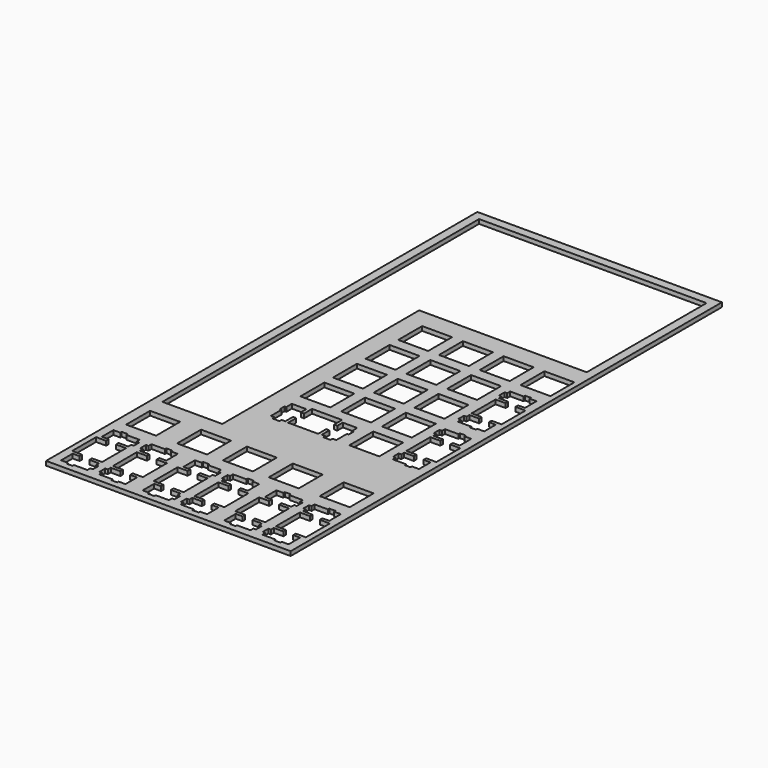
from build123d import *

# Parameters (mm, degrees)
SKETCH006_W     = 114.3
SKETCH006_H     = 251.95
PAD_DEPTH       = 2
POCKET_DEPTH    = 2.001
POCKET001_DEPTH = 2.001
POCKET002_DEPTH = 2.001
SKETCH008_W     = 106.3
SKETCH008_H     = 70
SKETCH008_W_2   = 28
SKETCH008_H_2   = 115
POCKET004_DEPTH = 5


with BuildPart() as part:
    # Sketch006 → Pad (new body)
    with BuildSketch(Plane.XY):
        with Locations((0, 125.975)):
            Rectangle(SKETCH006_W, SKETCH006_H)
    extrude(amount=PAD_DEPTH)

    # Sketch001 → Pocket (cut, through all)
    with BuildSketch(Plane(origin=(-62.151, 176.451, 0), x_dir=(1, 0, 0), z_dir=(0, 0, 1))):
        with BuildLine():
            add(Edge.make_bspline(
                [(109.275, -141.301), (109.275, -142.126)],
                knots=[0, 0, 0.825, 0.825], degree=1))
            add(Edge.make_bspline(
                [(109.275, -142.126), (103.006, -142.126)],
                knots=[0, 0, 6.269, 6.269], degree=1))
            add(Edge.make_bspline(
                [(103.006, -142.126), (103.006, -143.851)],
                knots=[0, 0, 1.725, 1.725], degree=1))
            add(Edge.make_bspline(
                [(103.006, -143.851), (101.805, -143.851)],
                knots=[0, 0, 1.201, 1.201], degree=1))
            add(Edge.make_bspline(
                [(101.805, -143.851), (101.805, -147.151)],
                knots=[0, 0, 3.3, 3.3], degree=1))
            add(Edge.make_bspline(
                [(101.805, -147.151), (103.006, -147.151)],
                knots=[0, 0, 1.201, 1.201], degree=1))
            add(Edge.make_bspline(
                [(103.006, -147.151), (103.006, -148.876)],
                knots=[0, 0, 1.725, 1.725], degree=1))
            add(Edge.make_bspline(
                [(103.006, -148.876), (107.476, -148.876)],
                knots=[0, 0, 4.47, 4.47], degree=1))
            add(Edge.make_bspline(
                [(107.476, -148.876), (107.476, -150.401)],
                knots=[0, 0, 1.525, 1.525], degree=1))
            add(Edge.make_bspline(
                [(107.476, -150.401), (102.775, -150.401)],
                knots=[0, 0, 4.701, 4.701], degree=1))
            add(Edge.make_bspline(
                [(102.775, -150.401), (102.775, -164.401)],
                knots=[0, 0, 14, 14], degree=1))
            add(Edge.make_bspline(
                [(102.775, -164.401), (107.476, -164.401)],
                knots=[0, 0, 4.701, 4.701], degree=1))
            add(Edge.make_bspline(
                [(107.476, -164.401), (107.476, -165.926)],
                knots=[0, 0, 1.525, 1.525], degree=1))
            add(Edge.make_bspline(
                [(107.476, -165.926), (103.006, -165.926)],
                knots=[0, 0, 4.47, 4.47], degree=1))
            add(Edge.make_bspline(
                [(103.006, -165.926), (103.006, -167.651)],
                knots=[0, 0, 1.725, 1.725], degree=1))
            add(Edge.make_bspline(
                [(103.006, -167.651), (101.805, -167.651)],
                knots=[0, 0, 1.201, 1.201], degree=1))
            add(Edge.make_bspline(
                [(101.805, -167.651), (101.805, -170.951)],
                knots=[0, 0, 3.3, 3.3], degree=1))
            add(Edge.make_bspline(
                [(101.805, -170.951), (103.006, -170.951)],
                knots=[0, 0, 1.201, 1.201], degree=1))
            add(Edge.make_bspline(
                [(103.006, -170.951), (103.006, -172.676)],
                knots=[0, 0, 1.725, 1.725], degree=1))
            add(Edge.make_bspline(
                [(103.006, -172.676), (109.275, -172.676)],
                knots=[0, 0, 6.269, 6.269], degree=1))
            add(Edge.make_bspline(
                [(109.275, -172.676), (109.275, -173.501)],
                knots=[0, 0, 0.825, 0.825], degree=1))
            add(Edge.make_bspline(
                [(109.275, -173.501), (112.075, -173.501)],
                knots=[0, 0, 2.8, 2.8], degree=1))
            add(Edge.make_bspline(
                [(112.075, -173.501), (112.075, -172.676)],
                knots=[0, 0, 0.825, 0.825], degree=1))
            add(Edge.make_bspline(
                [(112.075, -172.676), (115.305, -172.676)],
                knots=[0, 0, 3.23, 3.23], degree=1))
            add(Edge.make_bspline(
                [(115.305, -172.676), (115.305, -165.926)],
                knots=[0, 0, 6.75, 6.75], degree=1))
            add(Edge.make_bspline(
                [(115.305, -165.926), (112.075, -165.926)],
                knots=[0, 0, 3.23, 3.23], degree=1))
            add(Edge.make_bspline(
                [(112.075, -165.926), (112.075, -164.401)],
                knots=[0, 0, 1.525, 1.525], degree=1))
            add(Edge.make_bspline(
                [(112.075, -164.401), (116.775, -164.401)],
                knots=[0, 0, 4.7, 4.7], degree=1))
            add(Edge.make_bspline(
                [(116.775, -164.401), (116.775, -150.401)],
                knots=[0, 0, 14, 14], degree=1))
            add(Edge.make_bspline(
                [(116.775, -150.401), (112.075, -150.401)],
                knots=[0, 0, 4.7, 4.7], degree=1))
            add(Edge.make_bspline(
                [(112.075, -150.401), (112.075, -148.876)],
                knots=[0, 0, 1.525, 1.525], degree=1))
            add(Edge.make_bspline(
                [(112.075, -148.876), (115.305, -148.876)],
                knots=[0, 0, 3.23, 3.23], degree=1))
            add(Edge.make_bspline(
                [(115.305, -148.876), (115.305, -142.126)],
                knots=[0, 0, 6.75, 6.75], degree=1))
            add(Edge.make_bspline(
                [(115.305, -142.126), (112.075, -142.126)],
                knots=[0, 0, 3.23, 3.23], degree=1))
            add(Edge.make_bspline(
                [(112.075, -142.126), (112.075, -141.301)],
                knots=[0, 0, 0.825, 0.825], degree=1))
            add(Edge.make_bspline(
                [(112.075, -141.301), (109.275, -141.301)],
                knots=[0, 0, 2.8, 2.8], degree=1))
        make_face()
        with BuildLine():
            add(Edge.make_bspline(
                [(71.176, -141.301), (71.176, -142.126)],
                knots=[0, 0, 0.825, 0.825], degree=1))
            add(Edge.make_bspline(
                [(71.176, -142.126), (64.906, -142.126)],
                knots=[0, 0, 6.27, 6.27], degree=1))
            add(Edge.make_bspline(
                [(64.906, -142.126), (64.906, -143.851)],
                knots=[0, 0, 1.725, 1.725], degree=1))
            add(Edge.make_bspline(
                [(64.906, -143.851), (63.706, -143.851)],
                knots=[0, 0, 1.2, 1.2], degree=1))
            add(Edge.make_bspline(
                [(63.706, -143.851), (63.706, -147.151)],
                knots=[0, 0, 3.3, 3.3], degree=1))
            add(Edge.make_bspline(
                [(63.706, -147.151), (64.906, -147.151)],
                knots=[0, 0, 1.2, 1.2], degree=1))
            add(Edge.make_bspline(
                [(64.906, -147.151), (64.906, -148.876)],
                knots=[0, 0, 1.725, 1.725], degree=1))
            add(Edge.make_bspline(
                [(64.906, -148.876), (69.376, -148.876)],
                knots=[0, 0, 4.47, 4.47], degree=1))
            add(Edge.make_bspline(
                [(69.376, -148.876), (69.376, -150.401)],
                knots=[0, 0, 1.525, 1.525], degree=1))
            add(Edge.make_bspline(
                [(69.376, -150.401), (64.676, -150.401)],
                knots=[0, 0, 4.7, 4.7], degree=1))
            add(Edge.make_bspline(
                [(64.676, -150.401), (64.676, -164.401)],
                knots=[0, 0, 14, 14], degree=1))
            add(Edge.make_bspline(
                [(64.676, -164.401), (69.376, -164.401)],
                knots=[0, 0, 4.7, 4.7], degree=1))
            add(Edge.make_bspline(
                [(69.376, -164.401), (69.376, -165.926)],
                knots=[0, 0, 1.525, 1.525], degree=1))
            add(Edge.make_bspline(
                [(69.376, -165.926), (64.906, -165.926)],
                knots=[0, 0, 4.47, 4.47], degree=1))
            add(Edge.make_bspline(
                [(64.906, -165.926), (64.906, -167.651)],
                knots=[0, 0, 1.725, 1.725], degree=1))
            add(Edge.make_bspline(
                [(64.906, -167.651), (63.706, -167.651)],
                knots=[0, 0, 1.2, 1.2], degree=1))
            add(Edge.make_bspline(
                [(63.706, -167.651), (63.706, -170.951)],
                knots=[0, 0, 3.3, 3.3], degree=1))
            add(Edge.make_bspline(
                [(63.706, -170.951), (64.906, -170.951)],
                knots=[0, 0, 1.2, 1.2], degree=1))
            add(Edge.make_bspline(
                [(64.906, -170.951), (64.906, -172.676)],
                knots=[0, 0, 1.725, 1.725], degree=1))
            add(Edge.make_bspline(
                [(64.906, -172.676), (71.176, -172.676)],
                knots=[0, 0, 6.27, 6.27], degree=1))
            add(Edge.make_bspline(
                [(71.176, -172.676), (71.176, -173.501)],
                knots=[0, 0, 0.825, 0.825], degree=1))
            add(Edge.make_bspline(
                [(71.176, -173.501), (73.976, -173.501)],
                knots=[0, 0, 2.8, 2.8], degree=1))
            add(Edge.make_bspline(
                [(73.976, -173.501), (73.976, -172.676)],
                knots=[0, 0, 0.825, 0.825], degree=1))
            add(Edge.make_bspline(
                [(73.976, -172.676), (77.206, -172.676)],
                knots=[0, 0, 3.23, 3.23], degree=1))
            add(Edge.make_bspline(
                [(77.206, -172.676), (77.206, -165.926)],
                knots=[0, 0, 6.75, 6.75], degree=1))
            add(Edge.make_bspline(
                [(77.206, -165.926), (73.976, -165.926)],
                knots=[0, 0, 3.23, 3.23], degree=1))
            add(Edge.make_bspline(
                [(73.976, -165.926), (73.976, -164.401)],
                knots=[0, 0, 1.525, 1.525], degree=1))
            add(Edge.make_bspline(
                [(73.976, -164.401), (78.676, -164.401)],
                knots=[0, 0, 4.7, 4.7], degree=1))
            add(Edge.make_bspline(
                [(78.676, -164.401), (78.676, -150.401)],
                knots=[0, 0, 14, 14], degree=1))
            add(Edge.make_bspline(
                [(78.676, -150.401), (73.976, -150.401)],
                knots=[0, 0, 4.7, 4.7], degree=1))
            add(Edge.make_bspline(
                [(73.976, -150.401), (73.976, -148.876)],
                knots=[0, 0, 1.525, 1.525], degree=1))
            add(Edge.make_bspline(
                [(73.976, -148.876), (77.206, -148.876)],
                knots=[0, 0, 3.23, 3.23], degree=1))
            add(Edge.make_bspline(
                [(77.206, -148.876), (77.206, -142.126)],
                knots=[0, 0, 6.75, 6.75], degree=1))
            add(Edge.make_bspline(
                [(77.206, -142.126), (73.976, -142.126)],
                knots=[0, 0, 3.23, 3.23], degree=1))
            add(Edge.make_bspline(
                [(73.976, -142.126), (73.976, -141.301)],
                knots=[0, 0, 0.825, 0.825], degree=1))
            add(Edge.make_bspline(
                [(73.976, -141.301), (71.176, -141.301)],
                knots=[0, 0, 2.8, 2.8], degree=1))
        make_face()
        with BuildLine():
            add(Edge.make_bspline(
                [(33.076, -141.301), (33.076, -142.126)],
                knots=[0, 0, 0.825, 0.825], degree=1))
            add(Edge.make_bspline(
                [(33.076, -142.126), (26.806, -142.126)],
                knots=[0, 0, 6.27, 6.27], degree=1))
            add(Edge.make_bspline(
                [(26.806, -142.126), (26.806, -143.851)],
                knots=[0, 0, 1.725, 1.725], degree=1))
            add(Edge.make_bspline(
                [(26.806, -143.851), (25.606, -143.851)],
                knots=[0, 0, 1.2, 1.2], degree=1))
            add(Edge.make_bspline(
                [(25.606, -143.851), (25.606, -147.151)],
                knots=[0, 0, 3.3, 3.3], degree=1))
            add(Edge.make_bspline(
                [(25.606, -147.151), (26.806, -147.151)],
                knots=[0, 0, 1.2, 1.2], degree=1))
            add(Edge.make_bspline(
                [(26.806, -147.151), (26.806, -148.876)],
                knots=[0, 0, 1.725, 1.725], degree=1))
            add(Edge.make_bspline(
                [(26.806, -148.876), (31.276, -148.876)],
                knots=[0, 0, 4.47, 4.47], degree=1))
            add(Edge.make_bspline(
                [(31.276, -148.876), (31.276, -150.401)],
                knots=[0, 0, 1.525, 1.525], degree=1))
            add(Edge.make_bspline(
                [(31.276, -150.401), (26.576, -150.401)],
                knots=[0, 0, 4.7, 4.7], degree=1))
            add(Edge.make_bspline(
                [(26.576, -150.401), (26.576, -164.401)],
                knots=[0, 0, 14, 14], degree=1))
            add(Edge.make_bspline(
                [(26.576, -164.401), (31.276, -164.401)],
                knots=[0, 0, 4.7, 4.7], degree=1))
            add(Edge.make_bspline(
                [(31.276, -164.401), (31.276, -165.926)],
                knots=[0, 0, 1.525, 1.525], degree=1))
            add(Edge.make_bspline(
                [(31.276, -165.926), (26.806, -165.926)],
                knots=[0, 0, 4.47, 4.47], degree=1))
            add(Edge.make_bspline(
                [(26.806, -165.926), (26.806, -167.651)],
                knots=[0, 0, 1.725, 1.725], degree=1))
            add(Edge.make_bspline(
                [(26.806, -167.651), (25.606, -167.651)],
                knots=[0, 0, 1.2, 1.2], degree=1))
            add(Edge.make_bspline(
                [(25.606, -167.651), (25.606, -170.951)],
                knots=[0, 0, 3.3, 3.3], degree=1))
            add(Edge.make_bspline(
                [(25.606, -170.951), (26.806, -170.951)],
                knots=[0, 0, 1.2, 1.2], degree=1))
            add(Edge.make_bspline(
                [(26.806, -170.951), (26.806, -172.676)],
                knots=[0, 0, 1.725, 1.725], degree=1))
            add(Edge.make_bspline(
                [(26.806, -172.676), (33.076, -172.676)],
                knots=[0, 0, 6.27, 6.27], degree=1))
            add(Edge.make_bspline(
                [(33.076, -172.676), (33.076, -173.501)],
                knots=[0, 0, 0.825, 0.825], degree=1))
            add(Edge.make_bspline(
                [(33.076, -173.501), (35.876, -173.501)],
                knots=[0, 0, 2.8, 2.8], degree=1))
            add(Edge.make_bspline(
                [(35.876, -173.501), (35.876, -172.676)],
                knots=[0, 0, 0.825, 0.825], degree=1))
            add(Edge.make_bspline(
                [(35.876, -172.676), (39.106, -172.676)],
                knots=[0, 0, 3.23, 3.23], degree=1))
            add(Edge.make_bspline(
                [(39.106, -172.676), (39.106, -165.926)],
                knots=[0, 0, 6.75, 6.75], degree=1))
            add(Edge.make_bspline(
                [(39.106, -165.926), (35.876, -165.926)],
                knots=[0, 0, 3.23, 3.23], degree=1))
            add(Edge.make_bspline(
                [(35.876, -165.926), (35.876, -164.401)],
                knots=[0, 0, 1.525, 1.525], degree=1))
            add(Edge.make_bspline(
                [(35.876, -164.401), (40.576, -164.401)],
                knots=[0, 0, 4.7, 4.7], degree=1))
            add(Edge.make_bspline(
                [(40.576, -164.401), (40.576, -150.401)],
                knots=[0, 0, 14, 14], degree=1))
            add(Edge.make_bspline(
                [(40.576, -150.401), (35.876, -150.401)],
                knots=[0, 0, 4.7, 4.7], degree=1))
            add(Edge.make_bspline(
                [(35.876, -150.401), (35.876, -148.876)],
                knots=[0, 0, 1.525, 1.525], degree=1))
            add(Edge.make_bspline(
                [(35.876, -148.876), (39.106, -148.876)],
                knots=[0, 0, 3.23, 3.23], degree=1))
            add(Edge.make_bspline(
                [(39.106, -148.876), (39.106, -142.126)],
                knots=[0, 0, 6.75, 6.75], degree=1))
            add(Edge.make_bspline(
                [(39.106, -142.126), (35.876, -142.126)],
                knots=[0, 0, 3.23, 3.23], degree=1))
            add(Edge.make_bspline(
                [(35.876, -142.126), (35.876, -141.301)],
                knots=[0, 0, 0.825, 0.825], degree=1))
            add(Edge.make_bspline(
                [(35.876, -141.301), (33.076, -141.301)],
                knots=[0, 0, 2.8, 2.8], degree=1))
        make_face()
    extrude(amount=POCKET_DEPTH, mode=Mode.SUBTRACT)

    # Sketch003 → Pocket001 (cut, through all)
    with BuildSketch(Plane(origin=(-62.151, 176.451, 0), x_dir=(1, 0, 0), z_dir=(0, 0, 1))):
        with BuildLine():
            add(Edge.make_bspline(
                [(100.394, -121.826), (100.394, -135.826)],
                knots=[0, 0, 14, 14], degree=1))
            add(Edge.make_bspline(
                [(100.394, -135.826), (114.394, -135.826)],
                knots=[0, 0, 14, 14], degree=1))
            add(Edge.make_bspline(
                [(114.394, -135.826), (114.394, -121.826)],
                knots=[0, 0, 14, 14], degree=1))
            add(Edge.make_bspline(
                [(114.394, -121.826), (100.394, -121.826)],
                knots=[0, 0, 14, 14], degree=1))
        make_face()
        with BuildLine():
            add(Edge.make_bspline(
                [(76.582, -121.826), (76.582, -135.826)],
                knots=[0, 0, 14, 14], degree=1))
            add(Edge.make_bspline(
                [(76.582, -135.826), (90.582, -135.826)],
                knots=[0, 0, 14, 14], degree=1))
            add(Edge.make_bspline(
                [(90.582, -135.826), (90.582, -121.826)],
                knots=[0, 0, 14, 14], degree=1))
            add(Edge.make_bspline(
                [(90.582, -121.826), (76.582, -121.826)],
                knots=[0, 0, 14, 14], degree=1))
        make_face()
        with BuildLine():
            add(Edge.make_bspline(
                [(55.151, -121.826), (55.151, -135.826)],
                knots=[0, 0, 14, 14], degree=1))
            add(Edge.make_bspline(
                [(55.151, -135.826), (69.151, -135.826)],
                knots=[0, 0, 14, 14], degree=1))
            add(Edge.make_bspline(
                [(69.151, -135.826), (69.151, -121.826)],
                knots=[0, 0, 14, 14], degree=1))
            add(Edge.make_bspline(
                [(69.151, -121.826), (55.151, -121.826)],
                knots=[0, 0, 14, 14], degree=1))
        make_face()
        with BuildLine():
            add(Edge.make_bspline(
                [(33.719, -121.826), (33.719, -135.826)],
                knots=[0, 0, 14, 14], degree=1))
            add(Edge.make_bspline(
                [(33.719, -135.826), (47.719, -135.826)],
                knots=[0, 0, 14, 14], degree=1))
            add(Edge.make_bspline(
                [(47.719, -135.826), (47.719, -121.826)],
                knots=[0, 0, 14, 14], degree=1))
            add(Edge.make_bspline(
                [(47.719, -121.826), (33.719, -121.826)],
                knots=[0, 0, 14, 14], degree=1))
        make_face()
        with BuildLine():
            add(Edge.make_bspline(
                [(9.907, -121.826), (9.907, -135.826)],
                knots=[0, 0, 14, 14], degree=1))
            add(Edge.make_bspline(
                [(9.907, -135.826), (23.907, -135.826)],
                knots=[0, 0, 14, 14], degree=1))
            add(Edge.make_bspline(
                [(23.907, -135.826), (23.907, -121.826)],
                knots=[0, 0, 14, 14], degree=1))
            add(Edge.make_bspline(
                [(23.907, -121.826), (9.907, -121.826)],
                knots=[0, 0, 14, 14], degree=1))
        make_face()
        with BuildLine():
            add(Edge.make_bspline(
                [(55.151, -83.726), (55.151, -88.426)],
                knots=[0, 0, 4.7, 4.7], degree=1))
            add(Edge.make_bspline(
                [(55.151, -88.426), (53.626, -88.426)],
                knots=[0, 0, 1.525, 1.525], degree=1))
            add(Edge.make_bspline(
                [(53.626, -88.426), (53.626, -85.196)],
                knots=[0, 0, 3.23, 3.23], degree=1))
            add(Edge.make_bspline(
                [(53.626, -85.196), (46.876, -85.196)],
                knots=[0, 0, 6.75, 6.75], degree=1))
            add(Edge.make_bspline(
                [(46.876, -85.196), (46.876, -88.426)],
                knots=[0, 0, 3.23, 3.23], degree=1))
            add(Edge.make_bspline(
                [(46.876, -88.426), (46.051, -88.426)],
                knots=[0, 0, 0.825, 0.825], degree=1))
            add(Edge.make_bspline(
                [(46.051, -88.426), (46.051, -91.226)],
                knots=[0, 0, 2.8, 2.8], degree=1))
            add(Edge.make_bspline(
                [(46.051, -91.226), (46.876, -91.226)],
                knots=[0, 0, 0.825, 0.825], degree=1))
            add(Edge.make_bspline(
                [(46.876, -91.226), (46.876, -97.496)],
                knots=[0, 0, 6.27, 6.27], degree=1))
            add(Edge.make_bspline(
                [(46.876, -97.496), (48.601, -97.496)],
                knots=[0, 0, 1.725, 1.725], degree=1))
            add(Edge.make_bspline(
                [(48.601, -97.496), (48.601, -98.696)],
                knots=[0, 0, 1.2, 1.2], degree=1))
            add(Edge.make_bspline(
                [(48.601, -98.696), (51.901, -98.696)],
                knots=[0, 0, 3.3, 3.3], degree=1))
            add(Edge.make_bspline(
                [(51.901, -98.696), (51.901, -97.496)],
                knots=[0, 0, 1.2, 1.2], degree=1))
            add(Edge.make_bspline(
                [(51.901, -97.496), (53.626, -97.496)],
                knots=[0, 0, 1.725, 1.725], degree=1))
            add(Edge.make_bspline(
                [(53.626, -97.496), (53.626, -93.026)],
                knots=[0, 0, 4.47, 4.47], degree=1))
            add(Edge.make_bspline(
                [(53.626, -93.026), (55.151, -93.026)],
                knots=[0, 0, 1.525, 1.525], degree=1))
            add(Edge.make_bspline(
                [(55.151, -93.026), (55.151, -97.726)],
                knots=[0, 0, 4.7, 4.7], degree=1))
            add(Edge.make_bspline(
                [(55.151, -97.726), (69.151, -97.726)],
                knots=[0, 0, 14, 14], degree=1))
            add(Edge.make_bspline(
                [(69.151, -97.726), (69.151, -93.026)],
                knots=[0, 0, 4.7, 4.7], degree=1))
            add(Edge.make_bspline(
                [(69.151, -93.026), (70.676, -93.026)],
                knots=[0, 0, 1.525, 1.525], degree=1))
            add(Edge.make_bspline(
                [(70.676, -93.026), (70.676, -97.496)],
                knots=[0, 0, 4.47, 4.47], degree=1))
            add(Edge.make_bspline(
                [(70.676, -97.496), (72.401, -97.496)],
                knots=[0, 0, 1.725, 1.725], degree=1))
            add(Edge.make_bspline(
                [(72.401, -97.496), (72.401, -98.696)],
                knots=[0, 0, 1.2, 1.2], degree=1))
            add(Edge.make_bspline(
                [(72.401, -98.696), (75.701, -98.696)],
                knots=[0, 0, 3.3, 3.3], degree=1))
            add(Edge.make_bspline(
                [(75.701, -98.696), (75.701, -97.496)],
                knots=[0, 0, 1.2, 1.2], degree=1))
            add(Edge.make_bspline(
                [(75.701, -97.496), (77.426, -97.496)],
                knots=[0, 0, 1.725, 1.725], degree=1))
            add(Edge.make_bspline(
                [(77.426, -97.496), (77.426, -91.226)],
                knots=[0, 0, 6.27, 6.27], degree=1))
            add(Edge.make_bspline(
                [(77.426, -91.226), (78.251, -91.226)],
                knots=[0, 0, 0.825, 0.825], degree=1))
            add(Edge.make_bspline(
                [(78.251, -91.226), (78.251, -88.426)],
                knots=[0, 0, 2.8, 2.8], degree=1))
            add(Edge.make_bspline(
                [(78.251, -88.426), (77.426, -88.426)],
                knots=[0, 0, 0.825, 0.825], degree=1))
            add(Edge.make_bspline(
                [(77.426, -88.426), (77.426, -85.196)],
                knots=[0, 0, 3.23, 3.23], degree=1))
            add(Edge.make_bspline(
                [(77.426, -85.196), (70.676, -85.196)],
                knots=[0, 0, 6.75, 6.75], degree=1))
            add(Edge.make_bspline(
                [(70.676, -85.196), (70.676, -88.426)],
                knots=[0, 0, 3.23, 3.23], degree=1))
            add(Edge.make_bspline(
                [(70.676, -88.426), (69.151, -88.426)],
                knots=[0, 0, 1.525, 1.525], degree=1))
            add(Edge.make_bspline(
                [(69.151, -88.426), (69.151, -83.726)],
                knots=[0, 0, 4.7, 4.7], degree=1))
            add(Edge.make_bspline(
                [(69.151, -83.726), (55.151, -83.726)],
                knots=[0, 0, 14, 14], degree=1))
        make_face()
        with BuildLine():
            add(Edge.make_bspline(
                [(83.726, -83.726), (83.726, -97.726)],
                knots=[0, 0, 14, 14], degree=1))
            add(Edge.make_bspline(
                [(83.726, -97.726), (97.726, -97.726)],
                knots=[0, 0, 14, 14], degree=1))
            add(Edge.make_bspline(
                [(97.726, -97.726), (97.726, -83.726)],
                knots=[0, 0, 14, 14], degree=1))
            add(Edge.make_bspline(
                [(97.726, -83.726), (83.726, -83.726)],
                knots=[0, 0, 14, 14], degree=1))
        make_face()
        with BuildLine():
            add(Edge.make_bspline(
                [(109.275, -65.1), (109.275, -65.926)],
                knots=[0, 0, 0.826, 0.826], degree=1))
            add(Edge.make_bspline(
                [(109.275, -65.926), (103.006, -65.926)],
                knots=[0, 0, 6.269, 6.269], degree=1))
            add(Edge.make_bspline(
                [(103.006, -65.926), (103.006, -67.651)],
                knots=[0, 0, 1.725, 1.725], degree=1))
            add(Edge.make_bspline(
                [(103.006, -67.651), (101.805, -67.651)],
                knots=[0, 0, 1.201, 1.201], degree=1))
            add(Edge.make_bspline(
                [(101.805, -67.651), (101.805, -70.951)],
                knots=[0, 0, 3.3, 3.3], degree=1))
            add(Edge.make_bspline(
                [(101.805, -70.951), (103.006, -70.951)],
                knots=[0, 0, 1.201, 1.201], degree=1))
            add(Edge.make_bspline(
                [(103.006, -70.951), (103.006, -72.676)],
                knots=[0, 0, 1.725, 1.725], degree=1))
            add(Edge.make_bspline(
                [(103.006, -72.676), (107.476, -72.676)],
                knots=[0, 0, 4.47, 4.47], degree=1))
            add(Edge.make_bspline(
                [(107.476, -72.676), (107.476, -74.201)],
                knots=[0, 0, 1.525, 1.525], degree=1))
            add(Edge.make_bspline(
                [(107.476, -74.201), (102.775, -74.201)],
                knots=[0, 0, 4.701, 4.701], degree=1))
            add(Edge.make_bspline(
                [(102.775, -74.201), (102.775, -88.201)],
                knots=[0, 0, 14, 14], degree=1))
            add(Edge.make_bspline(
                [(102.775, -88.201), (107.476, -88.201)],
                knots=[0, 0, 4.701, 4.701], degree=1))
            add(Edge.make_bspline(
                [(107.476, -88.201), (107.476, -89.726)],
                knots=[0, 0, 1.525, 1.525], degree=1))
            add(Edge.make_bspline(
                [(107.476, -89.726), (103.006, -89.726)],
                knots=[0, 0, 4.47, 4.47], degree=1))
            add(Edge.make_bspline(
                [(103.006, -89.726), (103.006, -91.451)],
                knots=[0, 0, 1.725, 1.725], degree=1))
            add(Edge.make_bspline(
                [(103.006, -91.451), (101.805, -91.451)],
                knots=[0, 0, 1.201, 1.201], degree=1))
            add(Edge.make_bspline(
                [(101.805, -91.451), (101.805, -94.751)],
                knots=[0, 0, 3.3, 3.3], degree=1))
            add(Edge.make_bspline(
                [(101.805, -94.751), (103.006, -94.751)],
                knots=[0, 0, 1.201, 1.201], degree=1))
            add(Edge.make_bspline(
                [(103.006, -94.751), (103.006, -96.476)],
                knots=[0, 0, 1.725, 1.725], degree=1))
            add(Edge.make_bspline(
                [(103.006, -96.476), (109.275, -96.476)],
                knots=[0, 0, 6.269, 6.269], degree=1))
            add(Edge.make_bspline(
                [(109.275, -96.476), (109.275, -97.301)],
                knots=[0, 0, 0.825, 0.825], degree=1))
            add(Edge.make_bspline(
                [(109.275, -97.301), (112.075, -97.301)],
                knots=[0, 0, 2.8, 2.8], degree=1))
            add(Edge.make_bspline(
                [(112.075, -97.301), (112.075, -96.476)],
                knots=[0, 0, 0.825, 0.825], degree=1))
            add(Edge.make_bspline(
                [(112.075, -96.476), (115.305, -96.476)],
                knots=[0, 0, 3.23, 3.23], degree=1))
            add(Edge.make_bspline(
                [(115.305, -96.476), (115.305, -89.726)],
                knots=[0, 0, 6.75, 6.75], degree=1))
            add(Edge.make_bspline(
                [(115.305, -89.726), (112.075, -89.726)],
                knots=[0, 0, 3.23, 3.23], degree=1))
            add(Edge.make_bspline(
                [(112.075, -89.726), (112.075, -88.201)],
                knots=[0, 0, 1.525, 1.525], degree=1))
            add(Edge.make_bspline(
                [(112.075, -88.201), (116.775, -88.201)],
                knots=[0, 0, 4.7, 4.7], degree=1))
            add(Edge.make_bspline(
                [(116.775, -88.201), (116.775, -74.201)],
                knots=[0, 0, 14, 14], degree=1))
            add(Edge.make_bspline(
                [(116.775, -74.201), (112.075, -74.201)],
                knots=[0, 0, 4.7, 4.7], degree=1))
            add(Edge.make_bspline(
                [(112.075, -74.201), (112.075, -72.676)],
                knots=[0, 0, 1.525, 1.525], degree=1))
            add(Edge.make_bspline(
                [(112.075, -72.676), (115.305, -72.676)],
                knots=[0, 0, 3.23, 3.23], degree=1))
            add(Edge.make_bspline(
                [(115.305, -72.676), (115.305, -65.926)],
                knots=[0, 0, 6.75, 6.75], degree=1))
            add(Edge.make_bspline(
                [(115.305, -65.926), (112.075, -65.926)],
                knots=[0, 0, 3.23, 3.23], degree=1))
            add(Edge.make_bspline(
                [(112.075, -65.926), (112.075, -65.1)],
                knots=[0, 0, 0.826, 0.826], degree=1))
            add(Edge.make_bspline(
                [(112.075, -65.1), (109.275, -65.1)],
                knots=[0, 0, 2.8, 2.8], degree=1))
        make_face()
        with BuildLine():
            add(Edge.make_bspline(
                [(83.726, -64.676), (83.726, -78.676)],
                knots=[0, 0, 14, 14], degree=1))
            add(Edge.make_bspline(
                [(83.726, -78.676), (97.726, -78.676)],
                knots=[0, 0, 14, 14], degree=1))
            add(Edge.make_bspline(
                [(97.726, -78.676), (97.726, -64.676)],
                knots=[0, 0, 14, 14], degree=1))
            add(Edge.make_bspline(
                [(97.726, -64.676), (83.726, -64.676)],
                knots=[0, 0, 14, 14], degree=1))
        make_face()
        with BuildLine():
            add(Edge.make_bspline(
                [(64.676, -64.676), (64.676, -78.676)],
                knots=[0, 0, 14, 14], degree=1))
            add(Edge.make_bspline(
                [(64.676, -78.676), (78.676, -78.676)],
                knots=[0, 0, 14, 14], degree=1))
            add(Edge.make_bspline(
                [(78.676, -78.676), (78.676, -64.676)],
                knots=[0, 0, 14, 14], degree=1))
            add(Edge.make_bspline(
                [(78.676, -64.676), (64.676, -64.676)],
                knots=[0, 0, 14, 14], degree=1))
        make_face()
        with BuildLine():
            add(Edge.make_bspline(
                [(45.626, -64.676), (45.626, -78.676)],
                knots=[0, 0, 14, 14], degree=1))
            add(Edge.make_bspline(
                [(45.626, -78.676), (59.626, -78.676)],
                knots=[0, 0, 14, 14], degree=1))
            add(Edge.make_bspline(
                [(59.626, -78.676), (59.626, -64.676)],
                knots=[0, 0, 14, 14], degree=1))
            add(Edge.make_bspline(
                [(59.626, -64.676), (45.626, -64.676)],
                knots=[0, 0, 14, 14], degree=1))
        make_face()
        with BuildLine():
            add(Edge.make_bspline(
                [(83.726, -45.626), (83.726, -59.626)],
                knots=[0, 0, 14, 14], degree=1))
            add(Edge.make_bspline(
                [(83.726, -59.626), (97.726, -59.626)],
                knots=[0, 0, 14, 14], degree=1))
            add(Edge.make_bspline(
                [(97.726, -59.626), (97.726, -45.626)],
                knots=[0, 0, 14, 14], degree=1))
            add(Edge.make_bspline(
                [(97.726, -45.626), (83.726, -45.626)],
                knots=[0, 0, 14, 14], degree=1))
        make_face()
        with BuildLine():
            add(Edge.make_bspline(
                [(64.676, -45.626), (64.676, -59.626)],
                knots=[0, 0, 14, 14], degree=1))
            add(Edge.make_bspline(
                [(64.676, -59.626), (78.676, -59.626)],
                knots=[0, 0, 14, 14], degree=1))
            add(Edge.make_bspline(
                [(78.676, -59.626), (78.676, -45.626)],
                knots=[0, 0, 14, 14], degree=1))
            add(Edge.make_bspline(
                [(78.676, -45.626), (64.676, -45.626)],
                knots=[0, 0, 14, 14], degree=1))
        make_face()
        with BuildLine():
            add(Edge.make_bspline(
                [(45.626, -45.626), (45.626, -59.626)],
                knots=[0, 0, 14, 14], degree=1))
            add(Edge.make_bspline(
                [(45.626, -59.626), (59.626, -59.626)],
                knots=[0, 0, 14, 14], degree=1))
            add(Edge.make_bspline(
                [(59.626, -59.626), (59.626, -45.626)],
                knots=[0, 0, 14, 14], degree=1))
            add(Edge.make_bspline(
                [(59.626, -45.626), (45.626, -45.626)],
                knots=[0, 0, 14, 14], degree=1))
        make_face()
        with BuildLine():
            add(Edge.make_bspline(
                [(109.275, -27.001), (109.275, -27.826)],
                knots=[0, 0, 0.825, 0.825], degree=1))
            add(Edge.make_bspline(
                [(109.275, -27.826), (103.006, -27.826)],
                knots=[0, 0, 6.269, 6.269], degree=1))
            add(Edge.make_bspline(
                [(103.006, -27.826), (103.006, -29.551)],
                knots=[0, 0, 1.725, 1.725], degree=1))
            add(Edge.make_bspline(
                [(103.006, -29.551), (101.805, -29.551)],
                knots=[0, 0, 1.201, 1.201], degree=1))
            add(Edge.make_bspline(
                [(101.805, -29.551), (101.805, -32.851)],
                knots=[0, 0, 3.3, 3.3], degree=1))
            add(Edge.make_bspline(
                [(101.805, -32.851), (103.006, -32.851)],
                knots=[0, 0, 1.201, 1.201], degree=1))
            add(Edge.make_bspline(
                [(103.006, -32.851), (103.006, -34.576)],
                knots=[0, 0, 1.725, 1.725], degree=1))
            add(Edge.make_bspline(
                [(103.006, -34.576), (107.476, -34.576)],
                knots=[0, 0, 4.47, 4.47], degree=1))
            add(Edge.make_bspline(
                [(107.476, -34.576), (107.476, -36.101)],
                knots=[0, 0, 1.525, 1.525], degree=1))
            add(Edge.make_bspline(
                [(107.476, -36.101), (102.775, -36.101)],
                knots=[0, 0, 4.701, 4.701], degree=1))
            add(Edge.make_bspline(
                [(102.775, -36.101), (102.775, -50.101)],
                knots=[0, 0, 14, 14], degree=1))
            add(Edge.make_bspline(
                [(102.775, -50.101), (107.476, -50.101)],
                knots=[0, 0, 4.701, 4.701], degree=1))
            add(Edge.make_bspline(
                [(107.476, -50.101), (107.476, -51.626)],
                knots=[0, 0, 1.525, 1.525], degree=1))
            add(Edge.make_bspline(
                [(107.476, -51.626), (103.006, -51.626)],
                knots=[0, 0, 4.47, 4.47], degree=1))
            add(Edge.make_bspline(
                [(103.006, -51.626), (103.006, -53.351)],
                knots=[0, 0, 1.725, 1.725], degree=1))
            add(Edge.make_bspline(
                [(103.006, -53.351), (101.805, -53.351)],
                knots=[0, 0, 1.201, 1.201], degree=1))
            add(Edge.make_bspline(
                [(101.805, -53.351), (101.805, -56.651)],
                knots=[0, 0, 3.3, 3.3], degree=1))
            add(Edge.make_bspline(
                [(101.805, -56.651), (103.006, -56.651)],
                knots=[0, 0, 1.201, 1.201], degree=1))
            add(Edge.make_bspline(
                [(103.006, -56.651), (103.006, -58.376)],
                knots=[0, 0, 1.725, 1.725], degree=1))
            add(Edge.make_bspline(
                [(103.006, -58.376), (109.275, -58.376)],
                knots=[0, 0, 6.269, 6.269], degree=1))
            add(Edge.make_bspline(
                [(109.275, -58.376), (109.275, -59.201)],
                knots=[0, 0, 0.825, 0.825], degree=1))
            add(Edge.make_bspline(
                [(109.275, -59.201), (112.075, -59.201)],
                knots=[0, 0, 2.8, 2.8], degree=1))
            add(Edge.make_bspline(
                [(112.075, -59.201), (112.075, -58.376)],
                knots=[0, 0, 0.825, 0.825], degree=1))
            add(Edge.make_bspline(
                [(112.075, -58.376), (115.305, -58.376)],
                knots=[0, 0, 3.23, 3.23], degree=1))
            add(Edge.make_bspline(
                [(115.305, -58.376), (115.305, -51.626)],
                knots=[0, 0, 6.75, 6.75], degree=1))
            add(Edge.make_bspline(
                [(115.305, -51.626), (112.075, -51.626)],
                knots=[0, 0, 3.23, 3.23], degree=1))
            add(Edge.make_bspline(
                [(112.075, -51.626), (112.075, -50.101)],
                knots=[0, 0, 1.525, 1.525], degree=1))
            add(Edge.make_bspline(
                [(112.075, -50.101), (116.775, -50.101)],
                knots=[0, 0, 4.7, 4.7], degree=1))
            add(Edge.make_bspline(
                [(116.775, -50.101), (116.775, -36.101)],
                knots=[0, 0, 14, 14], degree=1))
            add(Edge.make_bspline(
                [(116.775, -36.101), (112.075, -36.101)],
                knots=[0, 0, 4.7, 4.7], degree=1))
            add(Edge.make_bspline(
                [(112.075, -36.101), (112.075, -34.576)],
                knots=[0, 0, 1.525, 1.525], degree=1))
            add(Edge.make_bspline(
                [(112.075, -34.576), (115.305, -34.576)],
                knots=[0, 0, 3.23, 3.23], degree=1))
            add(Edge.make_bspline(
                [(115.305, -34.576), (115.305, -27.826)],
                knots=[0, 0, 6.75, 6.75], degree=1))
            add(Edge.make_bspline(
                [(115.305, -27.826), (112.075, -27.826)],
                knots=[0, 0, 3.23, 3.23], degree=1))
            add(Edge.make_bspline(
                [(112.075, -27.826), (112.075, -27.001)],
                knots=[0, 0, 0.825, 0.825], degree=1))
            add(Edge.make_bspline(
                [(112.075, -27.001), (109.275, -27.001)],
                knots=[0, 0, 2.8, 2.8], degree=1))
        make_face()
        with BuildLine():
            add(Edge.make_bspline(
                [(83.726, -26.576), (83.726, -40.576)],
                knots=[0, 0, 14, 14], degree=1))
            add(Edge.make_bspline(
                [(83.726, -40.576), (97.726, -40.576)],
                knots=[0, 0, 14, 14], degree=1))
            add(Edge.make_bspline(
                [(97.726, -40.576), (97.726, -26.576)],
                knots=[0, 0, 14, 14], degree=1))
            add(Edge.make_bspline(
                [(97.726, -26.576), (83.726, -26.576)],
                knots=[0, 0, 14, 14], degree=1))
        make_face()
        with BuildLine():
            add(Edge.make_bspline(
                [(64.676, -26.576), (64.676, -40.576)],
                knots=[0, 0, 14, 14], degree=1))
            add(Edge.make_bspline(
                [(64.676, -40.576), (78.676, -40.576)],
                knots=[0, 0, 14, 14], degree=1))
            add(Edge.make_bspline(
                [(78.676, -40.576), (78.676, -26.576)],
                knots=[0, 0, 14, 14], degree=1))
            add(Edge.make_bspline(
                [(78.676, -26.576), (64.676, -26.576)],
                knots=[0, 0, 14, 14], degree=1))
        make_face()
        with BuildLine():
            add(Edge.make_bspline(
                [(45.626, -26.576), (45.626, -40.576)],
                knots=[0, 0, 14, 14], degree=1))
            add(Edge.make_bspline(
                [(45.626, -40.576), (59.626, -40.576)],
                knots=[0, 0, 14, 14], degree=1))
            add(Edge.make_bspline(
                [(59.626, -40.576), (59.626, -26.576)],
                knots=[0, 0, 14, 14], degree=1))
            add(Edge.make_bspline(
                [(59.626, -26.576), (45.626, -26.576)],
                knots=[0, 0, 14, 14], degree=1))
        make_face()
        with BuildLine():
            add(Edge.make_bspline(
                [(102.775, -7.526), (102.775, -21.526)],
                knots=[0, 0, 14, 14], degree=1))
            add(Edge.make_bspline(
                [(102.775, -21.526), (116.775, -21.526)],
                knots=[0, 0, 14, 14], degree=1))
            add(Edge.make_bspline(
                [(116.775, -21.526), (116.775, -7.526)],
                knots=[0, 0, 14, 14], degree=1))
            add(Edge.make_bspline(
                [(116.775, -7.526), (102.775, -7.526)],
                knots=[0, 0, 14, 14], degree=1))
        make_face()
        with BuildLine():
            add(Edge.make_bspline(
                [(83.726, -7.526), (83.726, -21.526)],
                knots=[0, 0, 14, 14], degree=1))
            add(Edge.make_bspline(
                [(83.726, -21.526), (97.726, -21.526)],
                knots=[0, 0, 14, 14], degree=1))
            add(Edge.make_bspline(
                [(97.726, -21.526), (97.726, -7.526)],
                knots=[0, 0, 14, 14], degree=1))
            add(Edge.make_bspline(
                [(97.726, -7.526), (83.726, -7.526)],
                knots=[0, 0, 14, 14], degree=1))
        make_face()
        with BuildLine():
            add(Edge.make_bspline(
                [(64.676, -7.526), (64.676, -21.526)],
                knots=[0, 0, 14, 14], degree=1))
            add(Edge.make_bspline(
                [(64.676, -21.526), (78.676, -21.526)],
                knots=[0, 0, 14, 14], degree=1))
            add(Edge.make_bspline(
                [(78.676, -21.526), (78.676, -7.526)],
                knots=[0, 0, 14, 14], degree=1))
            add(Edge.make_bspline(
                [(78.676, -7.526), (64.676, -7.526)],
                knots=[0, 0, 14, 14], degree=1))
        make_face()
        with BuildLine():
            add(Edge.make_bspline(
                [(45.626, -7.526), (45.626, -21.526)],
                knots=[0, 0, 14, 14], degree=1))
            add(Edge.make_bspline(
                [(45.626, -21.526), (59.626, -21.526)],
                knots=[0, 0, 14, 14], degree=1))
            add(Edge.make_bspline(
                [(59.626, -21.526), (59.626, -7.526)],
                knots=[0, 0, 14, 14], degree=1))
            add(Edge.make_bspline(
                [(59.626, -7.526), (45.626, -7.526)],
                knots=[0, 0, 14, 14], degree=1))
        make_face()
    extrude(amount=POCKET001_DEPTH, mode=Mode.SUBTRACT)

    # Sketch004 → Pocket002 (cut, through all)
    with BuildSketch(Plane(origin=(43.101, -138.351, 2), x_dir=(-1, 0, 0), z_dir=(0, 0, 1))):
        with BuildLine():
            add(Edge.make_bspline(
                [(90.226, -141.301), (90.226, -142.126)],
                knots=[0, 0, 0.825, 0.825], degree=1))
            add(Edge.make_bspline(
                [(90.226, -142.126), (83.956, -142.126)],
                knots=[0, 0, 6.27, 6.27], degree=1))
            add(Edge.make_bspline(
                [(83.956, -142.126), (83.956, -143.851)],
                knots=[0, 0, 1.725, 1.725], degree=1))
            add(Edge.make_bspline(
                [(83.956, -143.851), (82.756, -143.851)],
                knots=[0, 0, 1.2, 1.2], degree=1))
            add(Edge.make_bspline(
                [(82.756, -143.851), (82.756, -147.151)],
                knots=[0, 0, 3.3, 3.3], degree=1))
            add(Edge.make_bspline(
                [(82.756, -147.151), (83.956, -147.151)],
                knots=[0, 0, 1.2, 1.2], degree=1))
            add(Edge.make_bspline(
                [(83.956, -147.151), (83.956, -148.876)],
                knots=[0, 0, 1.725, 1.725], degree=1))
            add(Edge.make_bspline(
                [(83.956, -148.876), (88.426, -148.876)],
                knots=[0, 0, 4.47, 4.47], degree=1))
            add(Edge.make_bspline(
                [(88.426, -148.876), (88.426, -150.401)],
                knots=[0, 0, 1.525, 1.525], degree=1))
            add(Edge.make_bspline(
                [(88.426, -150.401), (83.726, -150.401)],
                knots=[0, 0, 4.7, 4.7], degree=1))
            add(Edge.make_bspline(
                [(83.726, -150.401), (83.726, -164.401)],
                knots=[0, 0, 14, 14], degree=1))
            add(Edge.make_bspline(
                [(83.726, -164.401), (88.426, -164.401)],
                knots=[0, 0, 4.7, 4.7], degree=1))
            add(Edge.make_bspline(
                [(88.426, -164.401), (88.426, -165.926)],
                knots=[0, 0, 1.525, 1.525], degree=1))
            add(Edge.make_bspline(
                [(88.426, -165.926), (83.956, -165.926)],
                knots=[0, 0, 4.47, 4.47], degree=1))
            add(Edge.make_bspline(
                [(83.956, -165.926), (83.956, -167.651)],
                knots=[0, 0, 1.725, 1.725], degree=1))
            add(Edge.make_bspline(
                [(83.956, -167.651), (82.756, -167.651)],
                knots=[0, 0, 1.2, 1.2], degree=1))
            add(Edge.make_bspline(
                [(82.756, -167.651), (82.756, -170.951)],
                knots=[0, 0, 3.3, 3.3], degree=1))
            add(Edge.make_bspline(
                [(82.756, -170.951), (83.956, -170.951)],
                knots=[0, 0, 1.2, 1.2], degree=1))
            add(Edge.make_bspline(
                [(83.956, -170.951), (83.956, -172.676)],
                knots=[0, 0, 1.725, 1.725], degree=1))
            add(Edge.make_bspline(
                [(83.956, -172.676), (90.226, -172.676)],
                knots=[0, 0, 6.27, 6.27], degree=1))
            add(Edge.make_bspline(
                [(90.226, -172.676), (90.226, -173.501)],
                knots=[0, 0, 0.825, 0.825], degree=1))
            add(Edge.make_bspline(
                [(90.226, -173.501), (93.025, -173.501)],
                knots=[0, 0, 2.799, 2.799], degree=1))
            add(Edge.make_bspline(
                [(93.025, -173.501), (93.025, -172.676)],
                knots=[0, 0, 0.825, 0.825], degree=1))
            add(Edge.make_bspline(
                [(93.025, -172.676), (96.256, -172.676)],
                knots=[0, 0, 3.231, 3.231], degree=1))
            add(Edge.make_bspline(
                [(96.256, -172.676), (96.256, -165.926)],
                knots=[0, 0, 6.75, 6.75], degree=1))
            add(Edge.make_bspline(
                [(96.256, -165.926), (93.025, -165.926)],
                knots=[0, 0, 3.231, 3.231], degree=1))
            add(Edge.make_bspline(
                [(93.025, -165.926), (93.025, -164.401)],
                knots=[0, 0, 1.525, 1.525], degree=1))
            add(Edge.make_bspline(
                [(93.025, -164.401), (97.726, -164.401)],
                knots=[0, 0, 4.701, 4.701], degree=1))
            add(Edge.make_bspline(
                [(97.726, -164.401), (97.726, -150.401)],
                knots=[0, 0, 14, 14], degree=1))
            add(Edge.make_bspline(
                [(97.726, -150.401), (93.025, -150.401)],
                knots=[0, 0, 4.701, 4.701], degree=1))
            add(Edge.make_bspline(
                [(93.025, -150.401), (93.025, -148.876)],
                knots=[0, 0, 1.525, 1.525], degree=1))
            add(Edge.make_bspline(
                [(93.025, -148.876), (96.256, -148.876)],
                knots=[0, 0, 3.231, 3.231], degree=1))
            add(Edge.make_bspline(
                [(96.256, -148.876), (96.256, -142.126)],
                knots=[0, 0, 6.75, 6.75], degree=1))
            add(Edge.make_bspline(
                [(96.256, -142.126), (93.025, -142.126)],
                knots=[0, 0, 3.231, 3.231], degree=1))
            add(Edge.make_bspline(
                [(93.025, -142.126), (93.025, -141.301)],
                knots=[0, 0, 0.825, 0.825], degree=1))
            add(Edge.make_bspline(
                [(93.025, -141.301), (90.226, -141.301)],
                knots=[0, 0, 2.799, 2.799], degree=1))
        make_face()
        with BuildLine():
            add(Edge.make_bspline(
                [(52.126, -141.301), (52.126, -142.126)],
                knots=[0, 0, 0.825, 0.825], degree=1))
            add(Edge.make_bspline(
                [(52.126, -142.126), (45.856, -142.126)],
                knots=[0, 0, 6.27, 6.27], degree=1))
            add(Edge.make_bspline(
                [(45.856, -142.126), (45.856, -143.851)],
                knots=[0, 0, 1.725, 1.725], degree=1))
            add(Edge.make_bspline(
                [(45.856, -143.851), (44.656, -143.851)],
                knots=[0, 0, 1.2, 1.2], degree=1))
            add(Edge.make_bspline(
                [(44.656, -143.851), (44.656, -147.151)],
                knots=[0, 0, 3.3, 3.3], degree=1))
            add(Edge.make_bspline(
                [(44.656, -147.151), (45.856, -147.151)],
                knots=[0, 0, 1.2, 1.2], degree=1))
            add(Edge.make_bspline(
                [(45.856, -147.151), (45.856, -148.876)],
                knots=[0, 0, 1.725, 1.725], degree=1))
            add(Edge.make_bspline(
                [(45.856, -148.876), (50.326, -148.876)],
                knots=[0, 0, 4.47, 4.47], degree=1))
            add(Edge.make_bspline(
                [(50.326, -148.876), (50.326, -150.401)],
                knots=[0, 0, 1.525, 1.525], degree=1))
            add(Edge.make_bspline(
                [(50.326, -150.401), (45.626, -150.401)],
                knots=[0, 0, 4.7, 4.7], degree=1))
            add(Edge.make_bspline(
                [(45.626, -150.401), (45.626, -164.401)],
                knots=[0, 0, 14, 14], degree=1))
            add(Edge.make_bspline(
                [(45.626, -164.401), (50.326, -164.401)],
                knots=[0, 0, 4.7, 4.7], degree=1))
            add(Edge.make_bspline(
                [(50.326, -164.401), (50.326, -165.926)],
                knots=[0, 0, 1.525, 1.525], degree=1))
            add(Edge.make_bspline(
                [(50.326, -165.926), (45.856, -165.926)],
                knots=[0, 0, 4.47, 4.47], degree=1))
            add(Edge.make_bspline(
                [(45.856, -165.926), (45.856, -167.651)],
                knots=[0, 0, 1.725, 1.725], degree=1))
            add(Edge.make_bspline(
                [(45.856, -167.651), (44.656, -167.651)],
                knots=[0, 0, 1.2, 1.2], degree=1))
            add(Edge.make_bspline(
                [(44.656, -167.651), (44.656, -170.951)],
                knots=[0, 0, 3.3, 3.3], degree=1))
            add(Edge.make_bspline(
                [(44.656, -170.951), (45.856, -170.951)],
                knots=[0, 0, 1.2, 1.2], degree=1))
            add(Edge.make_bspline(
                [(45.856, -170.951), (45.856, -172.676)],
                knots=[0, 0, 1.725, 1.725], degree=1))
            add(Edge.make_bspline(
                [(45.856, -172.676), (52.126, -172.676)],
                knots=[0, 0, 6.27, 6.27], degree=1))
            add(Edge.make_bspline(
                [(52.126, -172.676), (52.126, -173.501)],
                knots=[0, 0, 0.825, 0.825], degree=1))
            add(Edge.make_bspline(
                [(52.126, -173.501), (54.926, -173.501)],
                knots=[0, 0, 2.8, 2.8], degree=1))
            add(Edge.make_bspline(
                [(54.926, -173.501), (54.926, -172.676)],
                knots=[0, 0, 0.825, 0.825], degree=1))
            add(Edge.make_bspline(
                [(54.926, -172.676), (58.156, -172.676)],
                knots=[0, 0, 3.23, 3.23], degree=1))
            add(Edge.make_bspline(
                [(58.156, -172.676), (58.156, -165.926)],
                knots=[0, 0, 6.75, 6.75], degree=1))
            add(Edge.make_bspline(
                [(58.156, -165.926), (54.926, -165.926)],
                knots=[0, 0, 3.23, 3.23], degree=1))
            add(Edge.make_bspline(
                [(54.926, -165.926), (54.926, -164.401)],
                knots=[0, 0, 1.525, 1.525], degree=1))
            add(Edge.make_bspline(
                [(54.926, -164.401), (59.626, -164.401)],
                knots=[0, 0, 4.7, 4.7], degree=1))
            add(Edge.make_bspline(
                [(59.626, -164.401), (59.626, -150.401)],
                knots=[0, 0, 14, 14], degree=1))
            add(Edge.make_bspline(
                [(59.626, -150.401), (54.926, -150.401)],
                knots=[0, 0, 4.7, 4.7], degree=1))
            add(Edge.make_bspline(
                [(54.926, -150.401), (54.926, -148.876)],
                knots=[0, 0, 1.525, 1.525], degree=1))
            add(Edge.make_bspline(
                [(54.926, -148.876), (58.156, -148.876)],
                knots=[0, 0, 3.23, 3.23], degree=1))
            add(Edge.make_bspline(
                [(58.156, -148.876), (58.156, -142.126)],
                knots=[0, 0, 6.75, 6.75], degree=1))
            add(Edge.make_bspline(
                [(58.156, -142.126), (54.926, -142.126)],
                knots=[0, 0, 3.23, 3.23], degree=1))
            add(Edge.make_bspline(
                [(54.926, -142.126), (54.926, -141.301)],
                knots=[0, 0, 0.825, 0.825], degree=1))
            add(Edge.make_bspline(
                [(54.926, -141.301), (52.126, -141.301)],
                knots=[0, 0, 2.8, 2.8], degree=1))
        make_face()
        with BuildLine():
            add(Edge.make_bspline(
                [(14.025, -141.301), (14.025, -142.126)],
                knots=[0, 0, 0.825, 0.825], degree=1))
            add(Edge.make_bspline(
                [(14.025, -142.126), (7.756, -142.126)],
                knots=[0, 0, 6.269, 6.269], degree=1))
            add(Edge.make_bspline(
                [(7.756, -142.126), (7.756, -143.851)],
                knots=[0, 0, 1.725, 1.725], degree=1))
            add(Edge.make_bspline(
                [(7.756, -143.851), (6.556, -143.851)],
                knots=[0, 0, 1.2, 1.2], degree=1))
            add(Edge.make_bspline(
                [(6.556, -143.851), (6.556, -147.151)],
                knots=[0, 0, 3.3, 3.3], degree=1))
            add(Edge.make_bspline(
                [(6.556, -147.151), (7.756, -147.151)],
                knots=[0, 0, 1.2, 1.2], degree=1))
            add(Edge.make_bspline(
                [(7.756, -147.151), (7.756, -148.876)],
                knots=[0, 0, 1.725, 1.725], degree=1))
            add(Edge.make_bspline(
                [(7.756, -148.876), (12.226, -148.876)],
                knots=[0, 0, 4.47, 4.47], degree=1))
            add(Edge.make_bspline(
                [(12.226, -148.876), (12.226, -150.401)],
                knots=[0, 0, 1.525, 1.525], degree=1))
            add(Edge.make_bspline(
                [(12.226, -150.401), (7.526, -150.401)],
                knots=[0, 0, 4.7, 4.7], degree=1))
            add(Edge.make_bspline(
                [(7.526, -150.401), (7.526, -164.401)],
                knots=[0, 0, 14, 14], degree=1))
            add(Edge.make_bspline(
                [(7.526, -164.401), (12.226, -164.401)],
                knots=[0, 0, 4.7, 4.7], degree=1))
            add(Edge.make_bspline(
                [(12.226, -164.401), (12.226, -165.926)],
                knots=[0, 0, 1.525, 1.525], degree=1))
            add(Edge.make_bspline(
                [(12.226, -165.926), (7.756, -165.926)],
                knots=[0, 0, 4.47, 4.47], degree=1))
            add(Edge.make_bspline(
                [(7.756, -165.926), (7.756, -167.651)],
                knots=[0, 0, 1.725, 1.725], degree=1))
            add(Edge.make_bspline(
                [(7.756, -167.651), (6.556, -167.651)],
                knots=[0, 0, 1.2, 1.2], degree=1))
            add(Edge.make_bspline(
                [(6.556, -167.651), (6.556, -170.951)],
                knots=[0, 0, 3.3, 3.3], degree=1))
            add(Edge.make_bspline(
                [(6.556, -170.951), (7.756, -170.951)],
                knots=[0, 0, 1.2, 1.2], degree=1))
            add(Edge.make_bspline(
                [(7.756, -170.951), (7.756, -172.676)],
                knots=[0, 0, 1.725, 1.725], degree=1))
            add(Edge.make_bspline(
                [(7.756, -172.676), (14.026, -172.676)],
                knots=[0, 0, 6.27, 6.27], degree=1))
            add(Edge.make_bspline(
                [(14.026, -172.676), (14.026, -173.501)],
                knots=[0, 0, 0.825, 0.825], degree=1))
            add(Edge.make_bspline(
                [(14.026, -173.501), (16.826, -173.501)],
                knots=[0, 0, 2.8, 2.8], degree=1))
            add(Edge.make_bspline(
                [(16.826, -173.501), (16.826, -172.676)],
                knots=[0, 0, 0.825, 0.825], degree=1))
            add(Edge.make_bspline(
                [(16.826, -172.676), (20.056, -172.676)],
                knots=[0, 0, 3.23, 3.23], degree=1))
            add(Edge.make_bspline(
                [(20.056, -172.676), (20.056, -165.926)],
                knots=[0, 0, 6.75, 6.75], degree=1))
            add(Edge.make_bspline(
                [(20.056, -165.926), (16.826, -165.926)],
                knots=[0, 0, 3.23, 3.23], degree=1))
            add(Edge.make_bspline(
                [(16.826, -165.926), (16.826, -164.401)],
                knots=[0, 0, 1.525, 1.525], degree=1))
            add(Edge.make_bspline(
                [(16.826, -164.401), (21.526, -164.401)],
                knots=[0, 0, 4.7, 4.7], degree=1))
            add(Edge.make_bspline(
                [(21.526, -164.401), (21.526, -150.401)],
                knots=[0, 0, 14, 14], degree=1))
            add(Edge.make_bspline(
                [(21.526, -150.401), (16.826, -150.401)],
                knots=[0, 0, 4.7, 4.7], degree=1))
            add(Edge.make_bspline(
                [(16.826, -150.401), (16.826, -148.876)],
                knots=[0, 0, 1.525, 1.525], degree=1))
            add(Edge.make_bspline(
                [(16.826, -148.876), (20.056, -148.876)],
                knots=[0, 0, 3.23, 3.23], degree=1))
            add(Edge.make_bspline(
                [(20.056, -148.876), (20.056, -142.126)],
                knots=[0, 0, 6.75, 6.75], degree=1))
            add(Edge.make_bspline(
                [(20.056, -142.126), (16.826, -142.126)],
                knots=[0, 0, 3.23, 3.23], degree=1))
            add(Edge.make_bspline(
                [(16.826, -142.126), (16.826, -141.301)],
                knots=[0, 0, 0.825, 0.825], degree=1))
            add(Edge.make_bspline(
                [(16.826, -141.301), (14.025, -141.301)],
                knots=[0, 0, 2.801, 2.801], degree=1))
        make_face()
    extrude(amount=-POCKET002_DEPTH, mode=Mode.SUBTRACT)

    # Sketch008 (on DatumPlane) → Pocket004 (cut)
    with BuildSketch(Plane.XY.offset(2)):
        with Locations((0, 212.95)):
            Rectangle(SKETCH008_W, SKETCH008_H)
        with Locations((-39.15, 120.45)):
            Rectangle(SKETCH008_W_2, SKETCH008_H_2)
    extrude(amount=-POCKET004_DEPTH, mode=Mode.SUBTRACT)


solid = part.part
